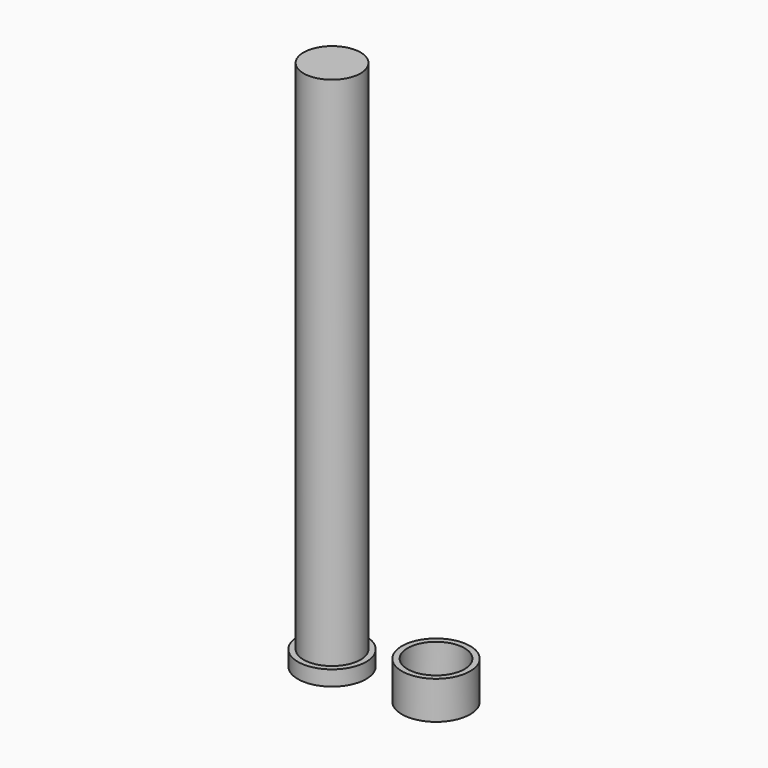
from build123d import *

# Parameters (mm, degrees)
F0_R     = 3.75
F2_DEPTH = 70
F0_R_2   = 4.5
F3_DEPTH = 2
F1_R     = 4.5
F1_R_2   = 3.75
F4_DEPTH = 5


with BuildPart() as f2:
    # F0 (on Top) → F2 (new body)
    with BuildSketch(Plane.XY):
        Circle(F0_R)
    extrude(amount=F2_DEPTH)

    # F0 (on Top) → F3 (join)
    with BuildSketch(Plane.XY):
        Circle(F0_R_2)
        Circle(F0_R, mode=Mode.SUBTRACT)
    extrude(amount=F3_DEPTH)


with BuildPart() as f4:
    # F1 (on Top) → F4 (new body)
    with BuildSketch(Plane.XY):
        with Locations((13.261163, 0.546843)):
            Circle(F1_R)
        with Locations((13.261163, 0.546843)):
            Circle(F1_R_2, mode=Mode.SUBTRACT)
    extrude(amount=F4_DEPTH)


solid = Compound([f2.part, f4.part])
